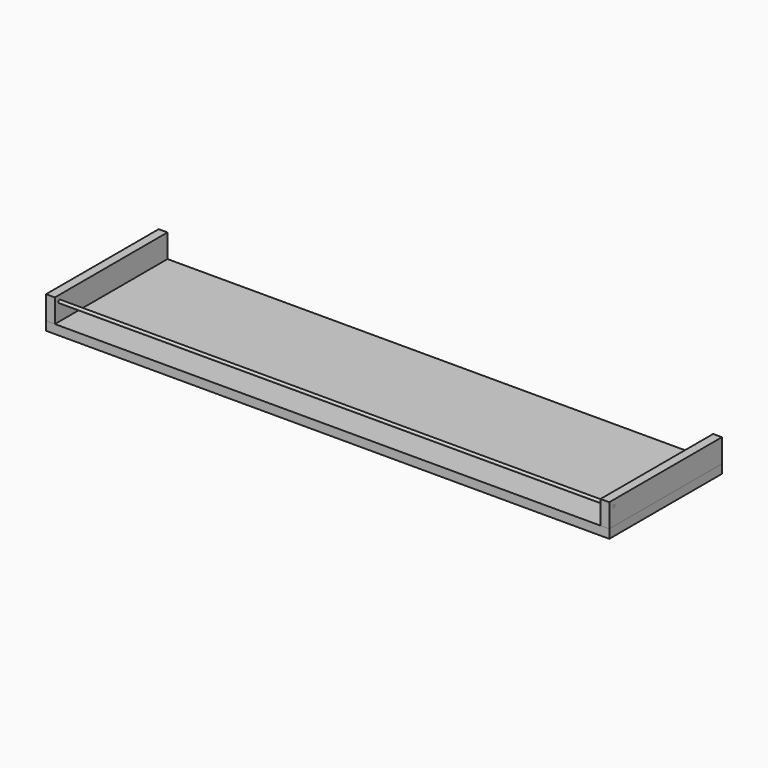
from build123d import *

# Parameters (mm, degrees)
F0_W     = 1219.2
F0_H     = 304.8
F1_DEPTH = 19.05
F2_W     = 19.05
F2_H     = 304.8
F3_DEPTH = 50.8
F5_R     = 3.175
F6_DEPTH = 1219.2


with BuildPart() as f1:
    # F0 (on Top) → F1 (new body)
    with BuildSketch(Plane.XY):
        Rectangle(F0_W, F0_H)
    extrude(amount=F1_DEPTH)


with BuildPart() as f3:
    # F2 (on face) → F3 (new body)
    with BuildSketch(Plane.XY.offset(19.05)):
        with Locations((-600.075, 0)):
            Rectangle(F2_W, F2_H)
    extrude(amount=F3_DEPTH)


with BuildPart() as f4_1:
    # F4: instance of F3
    add(f3.part.mirror(Plane.YZ))


with BuildPart() as f6:
    # F5 (on face) → F6 (new body, through all)
    with BuildSketch(Plane.YZ.offset(609.6)):
        with Locations((-139.7, 57.15)):
            Circle(F5_R)
    extrude(amount=-F6_DEPTH)


solid = Compound([f1.part, f3.part, f4_1.part, f6.part])
